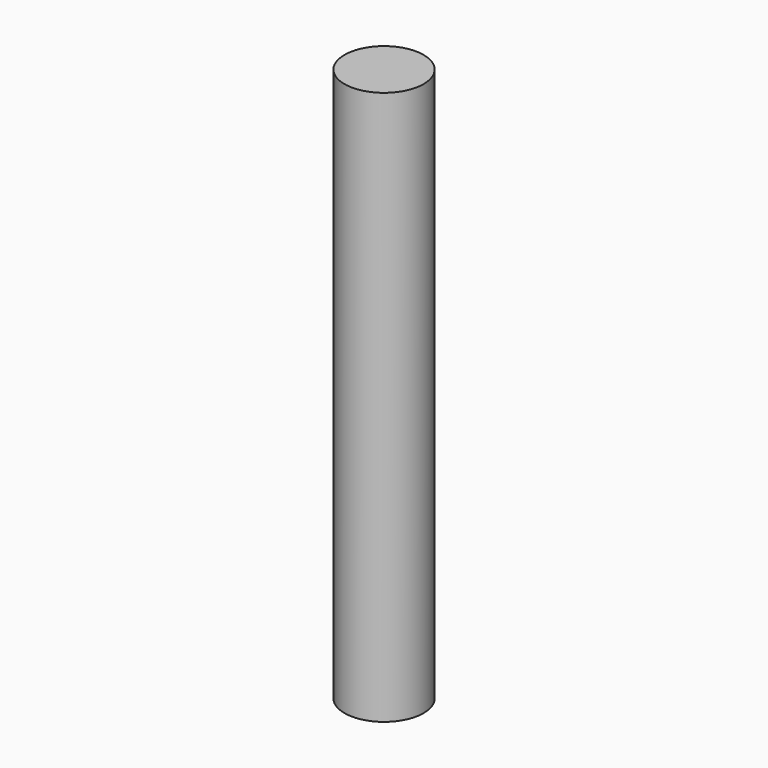
from build123d import *

# Parameters (mm, degrees)
F0_R     = 37.973
F1_DEPTH = 153.035
F2_DEPTH = 203.2
F3_DEPTH = 279.4
F4_R     = 50.8
F5_DEPTH = 355.6


with BuildPart() as f1:
    # F0 (on Top) → F1 (new body, symmetric)
    with BuildSketch(Plane.XY):
        Circle(F0_R)
    extrude(amount=F1_DEPTH, both=True)


with BuildPart() as f2:
    # F0 (on Top) → F2 (new body, symmetric)
    with BuildSketch(Plane.XY):
        Circle(F0_R)
    extrude(amount=F2_DEPTH, both=True)


with BuildPart() as f3:
    # F0 (on Top) → F3 (new body, symmetric)
    with BuildSketch(Plane.XY):
        Circle(F0_R)
    extrude(amount=F3_DEPTH, both=True)


with BuildPart() as f5:
    # F4 (on Top) → F5 (new body, symmetric)
    with BuildSketch(Plane.XY):
        Circle(F4_R)
    extrude(amount=F5_DEPTH, both=True)


solid = Compound([f1.part, f2.part, f3.part, f5.part])
